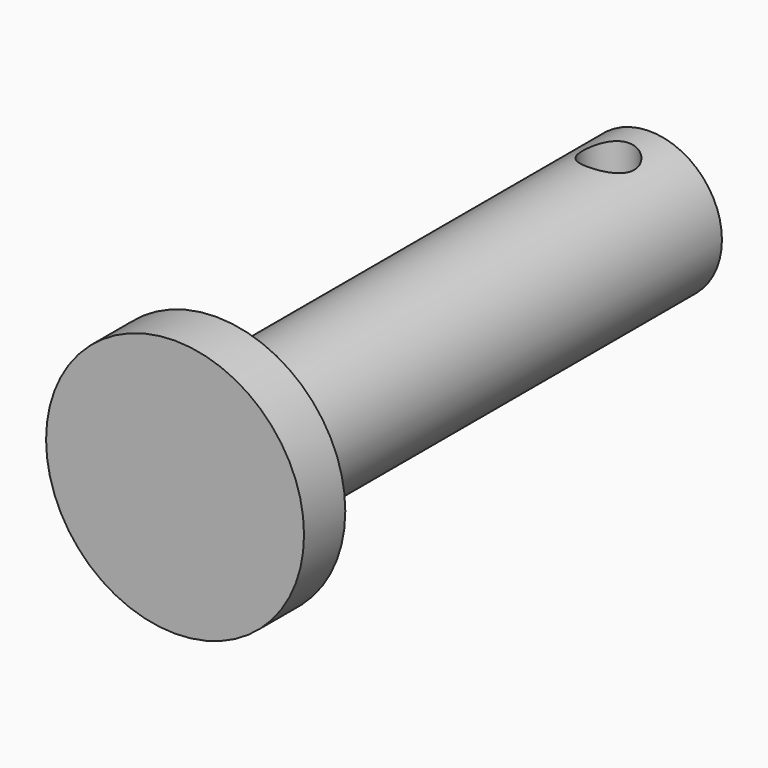
from build123d import *

# Parameters (mm, degrees)
SKETCH073_R       = 1
PAD074_DEPTH      = 10
CYLINDER043_R     = 2.8
CYLINDER043_DEPTH = 21
CYLINDER044_R     = 5
CYLINDER044_DEPTH = 2
CUT050_ROLL_ANGLE = 90


with BuildPart() as pad074:
    # Sketch073 → Pad074 (new body)
    with BuildSketch(Plane(origin=(0, 4.2, 21), x_dir=(1, 0, 0), z_dir=(0, -1, 0))):
        Circle(SKETCH073_R)
    extrude(amount=PAD074_DEPTH)


with BuildPart() as eje002:
    # Cylinder043 → Cylinder043 (new body)
    with BuildSketch(Plane.XY.offset(2)):
        Circle(CYLINDER043_R)
    extrude(amount=CYLINDER043_DEPTH)


with BuildPart() as eje_full002:
    # Cylinder044 → Cylinder044 (new body)
    with BuildSketch(Plane.XY):
        Circle(CYLINDER044_R)
    extrude(amount=CYLINDER044_DEPTH)

    # Fusion009003069: union Eje002
    add(eje002.part)

    # Cut050: cut Pad074
    add(pad074.part, mode=Mode.SUBTRACT)


with BuildPart() as eje_full002_1:
    # Cut050 roll: moved
    add(eje_full002.part.rotate(Axis((0, 0, 0), (1, 0, 0)), CUT050_ROLL_ANGLE))


with BuildPart() as eje_full002_2:
    # Cut050 placement: moved
    add(eje_full002_1.part.moved(Location((185, 17, 8.5))))


with BuildPart() as eje_full2:
    # Part__Mirroring014: instance of Eje_full002
    add(eje_full002_2.part.mirror(Plane(origin=(0, 0, 0), x_dir=(1, 0, 0), z_dir=(0, 1, 0))))


with BuildPart() as eje_full2_1:
    # Part__Mirroring014 placement: moved
    add(eje_full2.part.moved(Location((0, -178, 0))))


solid = eje_full2_1.part
